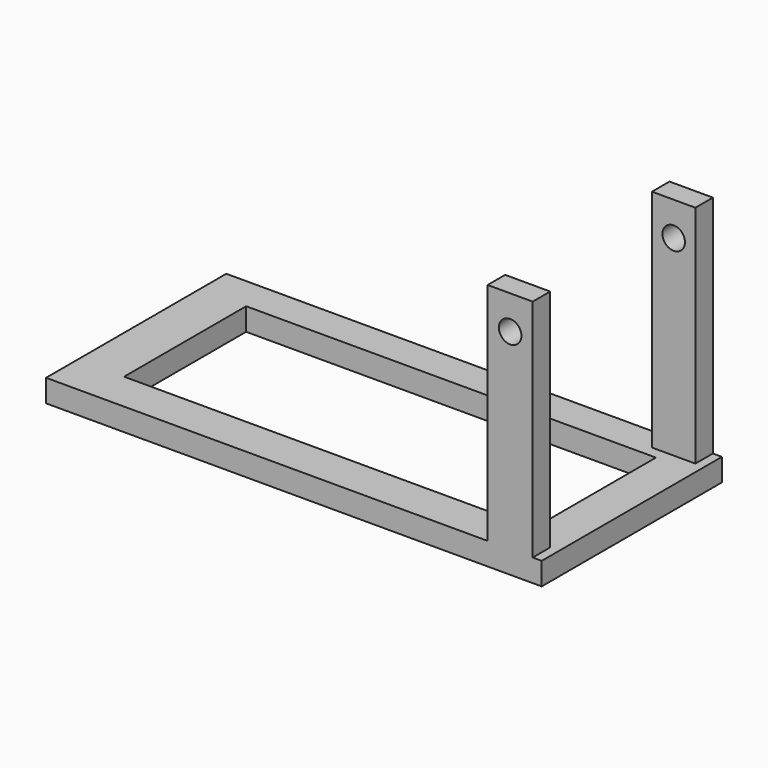
from build123d import *

# Parameters (mm, degrees)
F0_W     = 139.7
F0_H     = 63.5
F0_W_2   = 115.509763
F0_H_2   = 43.004075
F1_DEPTH = 6.35
F2_W     = 12.7
F2_H     = 63.5
F3_DEPTH = 6.173076
F4_R     = 3.175
F5_DEPTH = 32.64235
F6_W     = 12.237505
F6_H     = 63.5
F7_DEPTH = 6.1722
F8_R     = 3.175
F9_DEPTH = 25.4


with BuildPart() as f1:
    # F0 (on Top) → F1 (new body)
    with BuildSketch(Plane.XY):
        with Locations((-18.169344, -8.735743)):
            Rectangle(F0_W, F0_H)
        with Locations((-17.179944, -7.856222)):
            Rectangle(F0_W_2, F0_H_2, mode=Mode.SUBTRACT)
    extrude(amount=F1_DEPTH)

    # F2 (on face) → F3 (join)
    with BuildSketch(Plane.XZ.offset(40.485743)):
        with Locations((42.790656, 38.1)):
            Rectangle(F2_W, F2_H)
    extrude(amount=-F3_DEPTH)

    # F4 (on face) → F5 (cut)
    with BuildSketch(Plane(origin=(0, -34.312667, 0), x_dir=(-1, 0, 0), z_dir=(0, 1, 0))):
        with Locations((-42.790656, 60.325)):
            Circle(F4_R)
    extrude(amount=-F5_DEPTH, mode=Mode.SUBTRACT)

    # F6 (on face) → F7 (join)
    with BuildSketch(Plane(origin=(0, 23.014257, 0), x_dir=(-1, 0, 0), z_dir=(0, 1, 0))):
        with Locations((-43.021904, 38.1)):
            Rectangle(F6_W, F6_H)
    extrude(amount=-F7_DEPTH)

    # F8 (on face) → F9 (cut)
    with BuildSketch(Plane(origin=(0, 23.014257, 0), x_dir=(-1, 0, 0), z_dir=(0, 1, 0))):
        with Locations((-43.021903, 60.325)):
            Circle(F8_R)
    extrude(amount=-F9_DEPTH, mode=Mode.SUBTRACT)


solid = f1.part
